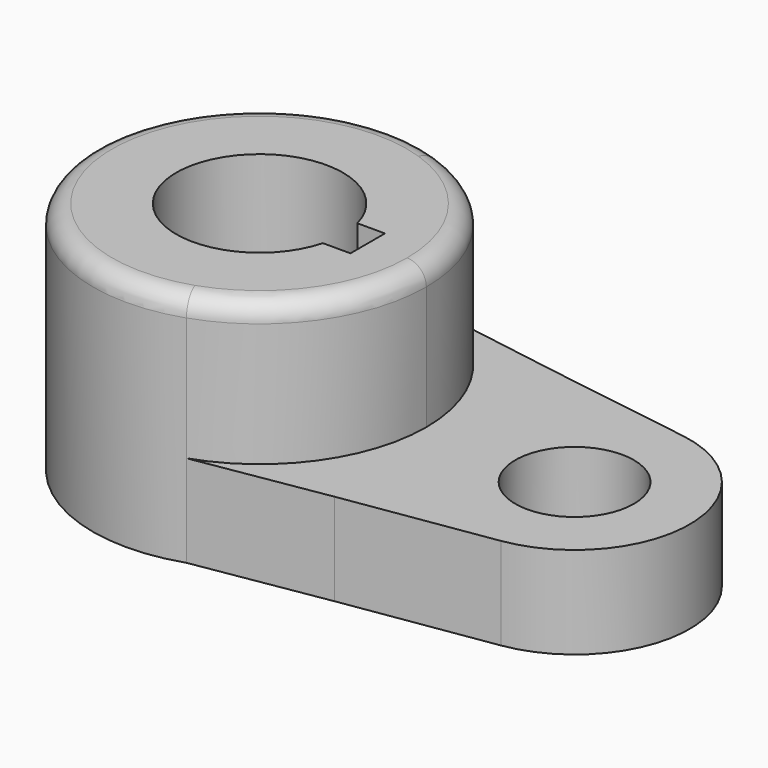
from build123d import *

# Parameters (mm, degrees)
F1_DEPTH = 40.2336
F0_R     = 10.16
F2_DEPTH = 15.7734
F3_R     = 3.302


with BuildPart() as f1:
    # F0 (on Top) → F1 (new body)
    with BuildSketch(Plane.XY):
        with BuildLine():
            ThreePointArc((9.135252, -27.075409), (23.211748, -16.665695), (28.575, 0))
            ThreePointArc((28.575, 0), (23.211748, 16.665695), (9.135252, 27.075409))
            ThreePointArc((9.135252, 27.075409), (-28.575, 0), (9.135252, -27.075409))
        make_face()
        with BuildLine():
            ThreePointArc((13.801996, -3.692906), (-14.2875, 0), (13.801996, 3.692906))
            Line((13.801996, 3.692906), (18.5293, 3.692906))
            Line((18.5293, 3.692906), (18.5293, -3.692906))
            Line((18.5293, -3.692906), (13.801996, -3.692906))
        make_face(mode=Mode.SUBTRACT)
    extrude(amount=F1_DEPTH)

    # F0 (on Top) → F2 (join)
    with BuildSketch(Plane.XY):
        with BuildLine():
            ThreePointArc((9.135252, 27.075409), (23.211748, 16.665695), (28.575, 0))
            ThreePointArc((28.575, 0), (23.211748, -16.665695), (9.135252, -27.075409))
            Line((9.135252, -27.075409), (31.555126, -23.395091))
            Line((31.555126, -23.395091), (56.972144, -19.485621))
            ThreePointArc((56.972144, -19.485621), (73.689773, 0), (56.972144, 19.485621))
            Line((56.972144, 19.485621), (31.555126, 23.395091))
            Line((31.555126, 23.395091), (9.135252, 27.075409))
        make_face()
        with Locations((53.975, 0)):
            Circle(F0_R, mode=Mode.SUBTRACT)
    extrude(amount=F2_DEPTH)

    # F3
    f3_edges = [f1.edges().sort_by_distance(p)[0] for p in [
        (-9.135252, 27.075409, 40.2336),
    ]]
    fillet(f3_edges, radius=F3_R)


solid = f1.part
